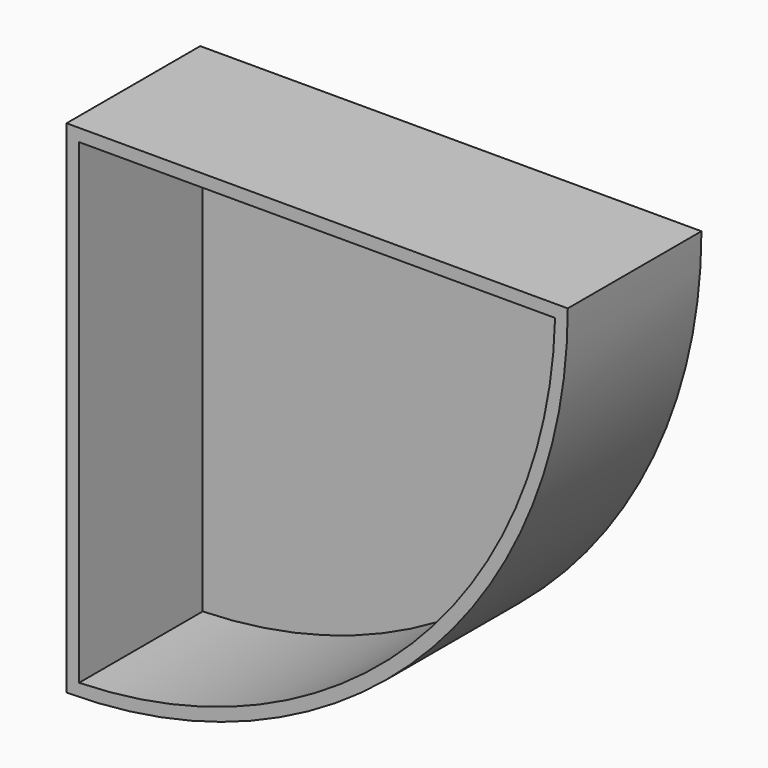
from build123d import *

# Parameters (mm, degrees)
F1_DEPTH = 40
F2_T     = -3


with BuildPart() as f1:
    # F0 (on Front) → F1 (new body)
    with BuildSketch(Plane.XZ):
        with BuildLine():
            Line((0, 0.086318), (0, -119.913682))
            ThreePointArc((0, -119.913682), (84.852814, -84.766496), (120, 0.086318))
            Line((120, 0.086318), (0, 0.086318))
        make_face()
    extrude(amount=F1_DEPTH)

    # F2
    f2_openings = [f1.faces().sort_by_distance(p)[0] for p in [
        (50.929582, -40, -50.843264),
    ]]
    offset(amount=F2_T, openings=f2_openings)


solid = f1.part
